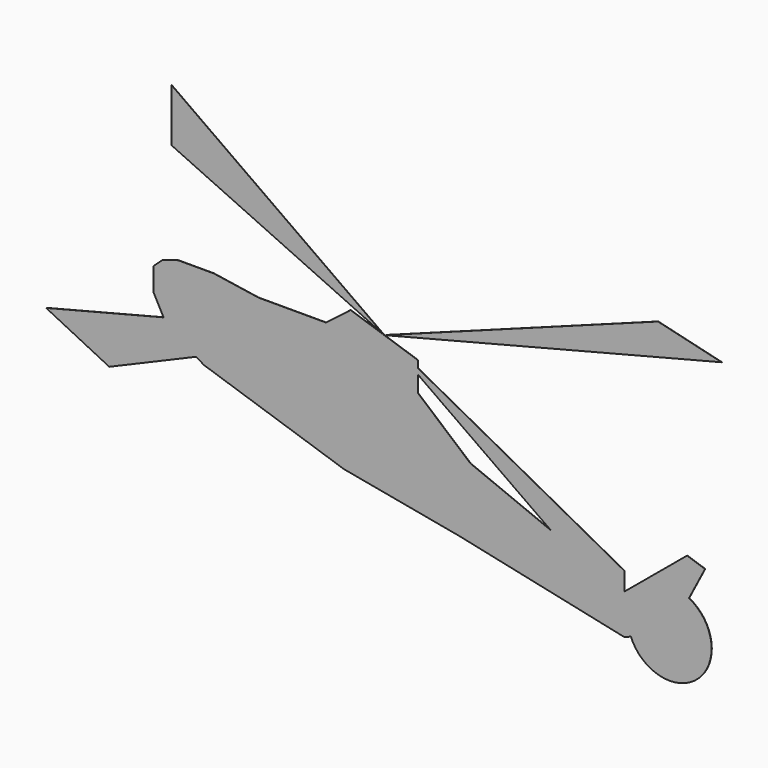
from build123d import *

# Parameters (mm, degrees)
F1_DEPTH = 0.0254


with BuildPart() as f1:
    # F0 (on Front) → F1 (new body)
    with BuildSketch(Plane.XZ):
        with BuildLine():
            Line((21.1532198297, -4.7183046117), (21.1532198297, -6.9679971619))
            Line((21.1532198297, -6.9679971619), (0, 0))
            Line((0, 0), (-15.699960563, 5.1716609351))
            Line((-15.699960563, 5.1716609351), (-22.7077419713, 2.1823952402))
            Line((-22.7077419713, 2.1823952402), (-21.9090841711, 1.6962556401))
            Line((-21.9090841711, 1.6962556401), (-7.5829812436, -3.0228483707))
            Line((-7.5829812436, -3.0228483707), (4.2425836436, -5.2117318846))
            Line((4.2425836436, -5.2117318846), (21.1532198297, -8.8302018121))
            Line((21.1532198297, -8.8302018121), (21.8092405149, -8.5666724092))
            ThreePointArc((21.8092405149, -8.5666724092), (22.9068702124, -3.7919284222), (27.7654646969, -3.1618246777))
            Line((27.7654646969, -3.1618246777), (29.4073950499, 0))
            Line((29.4073950499, 0), (27.5644548807, 0.6070755172))
            Line((27.5644548807, 0.6070755172), (21.1532198297, -4.7183046117))
        make_face()
        Polygon((0, 0), (21.1532198297, -6.9679971619), (13.6257617504, -1.6543792964), (5.3939148784, 1.6962556401), (0, 6.3015804626), (0, 7.9640191465), (-3.4479540106, 10.3979231068), (-15.699960563, 5.1716609351), align=None)
        Polygon((13.6257617504, -1.6543792964), (21.1532198297, -6.9679971619), (21.1532198297, -4.7183046117), align=None)
        Polygon((0, 7.9640191465), (13.6257617504, -1.6543792964), (21.1532198297, -4.7183046117), (21.1532198297, -2.8550466523), (0, 8.5404657949), align=None)
        Polygon((-22.7077419713, 2.1823952402), (-15.699960563, 5.1716609351), (-19.3135461728, 6.3619976534), (-26.0399777707, 4.6509126704), (-25.6920289248, 3.9989179932), align=None)
        Polygon((-19.3135461728, 6.3619976534), (-15.699960563, 5.1716609351), (-3.4479540106, 10.3979231068), align=None)
        Polygon((-3.4479540106, 10.3979231068), (0, 7.9640191465), (0, 8.5404657949), align=None)
        Polygon((-26.0399777707, 4.6509126704), (-19.3135461728, 6.3619976534), (-27.0964379525, 8.9257287671), (-27.0964379525, 6.6305324435), align=None)
        Polygon((-27.0964379525, 8.9257287671), (-19.3135461728, 6.3619976534), (-3.4479540106, 10.3979231068), (-6.8959080211, 11.5336997854), (-9.4089163467, 9.5910979435), (-16.3169037551, 9.5910979435), (-20.9037661552, 10.2842394263), (-24.552013725, 10.2842394263), (-26.1405128986, 9.7918696702), align=None)
        Polygon((-31.6055566072, -1.613090164), (-22.7077419713, 2.1823952402), (-25.6920289248, 3.9989179932), (-26.0399777707, 4.6509126704), (-38.0744349224, 1.5895600628), align=None)
        Polygon((0, 9.2621464282), (-3.4479540106, 10.3979231068), (0, 8.5404657949), align=None)
        with BuildLine():
            ThreePointArc((30.0777081459, -6.9679971619), (29.4543452287, -4.7412608312), (27.7654646969, -3.1618246777))
            Line((27.7654646969, -3.1618246777), (25.7889255881, -6.9679971619))
            Line((25.7889255881, -6.9679971619), (21.8092405149, -8.5666724092))
            ThreePointArc((21.8092405149, -8.5666724092), (26.603066823, -11.1787963589), (30.0777081459, -6.9679971619))
        make_face()
        with BuildLine():
            Line((25.7889255881, -6.9679971619), (27.7654646969, -3.1618246777))
            ThreePointArc((27.7654646969, -3.1618246777), (22.9068702124, -3.7919284222), (21.8092405149, -8.5666724092))
            Line((21.8092405149, -8.5666724092), (25.7889255881, -6.9679971619))
        make_face()
    extrude(amount=F1_DEPTH)


with BuildPart() as f1b:
    # F0 (on Front) → F1, piece 2 (new body)
    with BuildSketch(Plane.XZ):
        Polygon((-25.2405274659, 20.4316396266), (-3.4479540106, 10.3979231068), (-25.2405274659, 25.8651990443), align=None)
    extrude(amount=F1_DEPTH)


with BuildPart() as f1c:
    # F0 (on Front) → F1, piece 3 (new body)
    with BuildSketch(Plane.XZ):
        Polygon((24.5929788798, 20.7421295345), (-3.4479540106, 10.3979231068), (31.1132539064, 19.1896818578), align=None)
    extrude(amount=F1_DEPTH)


solid = Compound([f1.part, f1b.part, f1c.part])
